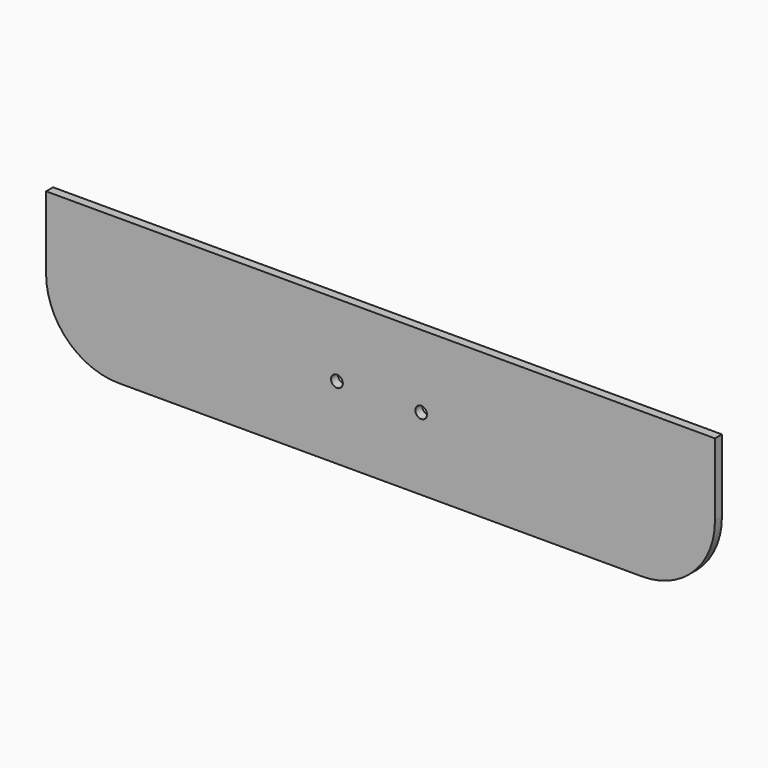
from build123d import *

# Parameters (mm, degrees)
F1_DEPTH = 6
F2_D     = 8.1


with BuildPart() as f1:
    # F0 (on Front) → F1 (new body)
    with BuildSketch(Plane.XZ):
        with BuildLine():
            Line((229.9042289257, -26.6762265607), (-230.4707710743, -26.6762265607))
            Line((-230.4707710743, -26.6762265607), (-230.4707710743, -76.6762265607))
            ThreePointArc((-230.4707710743, -76.6762265607), (-215.8261101336, -112.0315656201), (-180.4707710743, -126.6762265607))
            Line((-180.4707710743, -126.6762265607), (179.9042289257, -126.6762265607))
            ThreePointArc((179.9042289257, -126.6762265607), (215.259567985, -112.0315656201), (229.9042289257, -76.6762265607))
            Line((229.9042289257, -76.6762265607), (229.9042289257, -26.6762265607))
        make_face()
    extrude(amount=F1_DEPTH)

    # F2 (through all)
    with Locations(Plane(origin=(0, 0, 0), x_dir=(1, 0, 0), z_dir=(0, 1, 0))):
        with Locations((-30.2832710743, 76.6762265607), (27.7167289257, 76.6762265607)):
            Hole(F2_D / 2)


solid = f1.part
